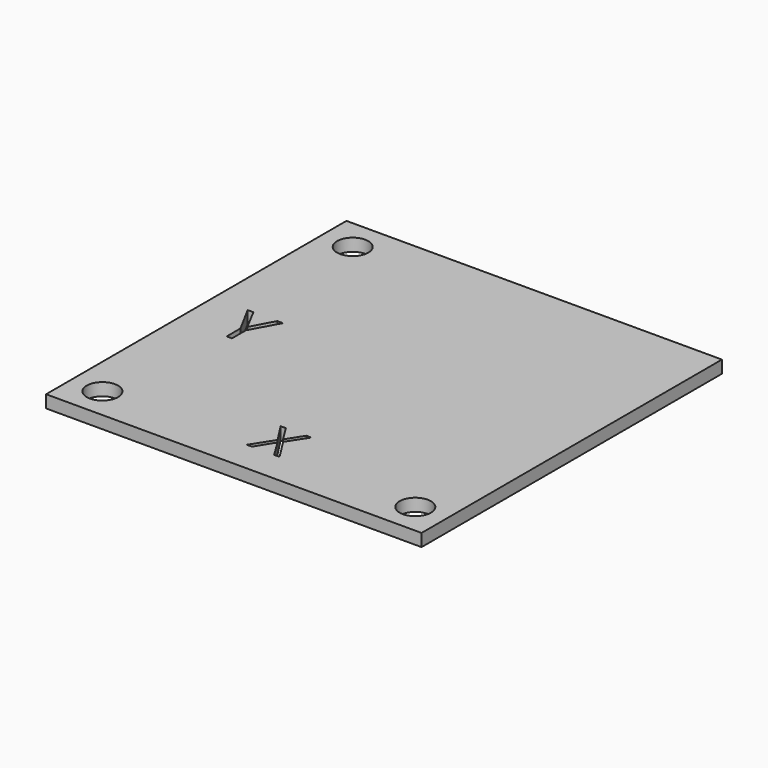
from build123d import *

# Parameters (mm, degrees)
F0_W     = 60
F0_H     = 60
F0_R     = 2.5
F1_DEPTH = 2


with BuildPart() as f1:
    # F0 (on Top) → F1 (new body)
    with BuildSketch(Plane.XY):
        with Locations((30, -30)):
            Rectangle(F0_W, F0_H)
        with Locations((5, -55)):
            Circle(F0_R, mode=Mode.SUBTRACT)
        Polygon((6.3547094441, -26.5316670423), (8.2590716884, -30.1279213632), (10.1760247574, -26.5316670423), (11.0809902868, -26.5316670423), (8.6808643177, -30.9337341476), (8.6808643177, -33.722601831), (7.835705206, -33.722601831), (7.835705206, -30.9730804749), (5.4403007962, -26.5316670423), align=None, mode=Mode.SUBTRACT)
        Polygon((31.1360398773, -51.5644881962), (33.3232842313, -55.0153143704), (32.4584262999, -55.0153143704), (30.6971567479, -52.1338888575), (28.9043335069, -55.0153143704), (28.0968459192, -55.0153143704), (30.2754847216, -51.5903048508), (28.2445745543, -48.46218686), (29.0879186068, -48.46218686), (30.714367851, -51.0581949129), (32.3551596812, -48.46218686), (33.1655157861, -48.46218686), align=None, mode=Mode.SUBTRACT)
        with Locations((55, -55)):
            Circle(F0_R, mode=Mode.SUBTRACT)
        with Locations((5, -5)):
            Circle(F0_R, mode=Mode.SUBTRACT)
    extrude(amount=F1_DEPTH)


solid = f1.part
